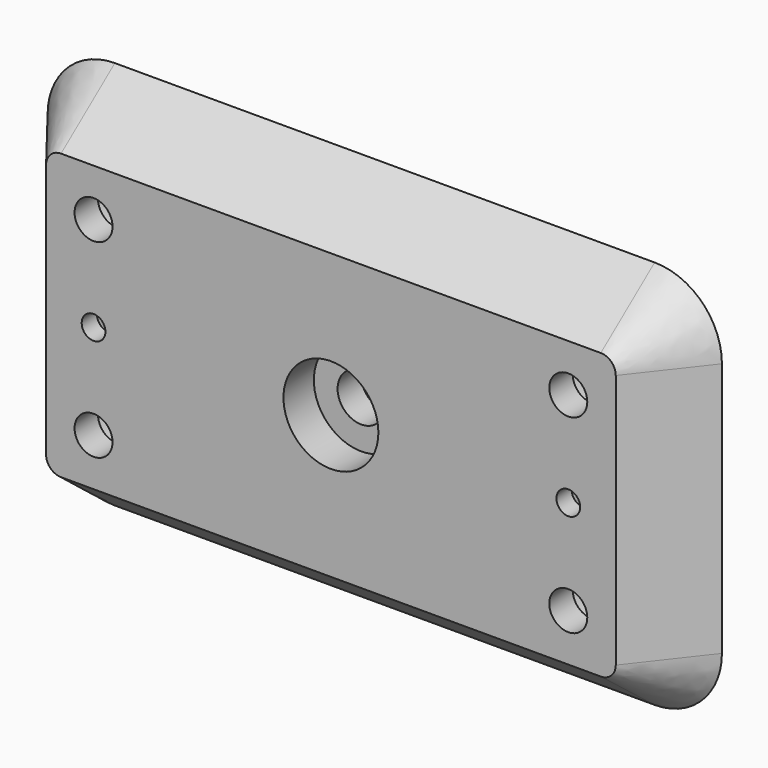
from build123d import *

# Parameters (mm, degrees)
F0_R      = 2.54
F0_R_2    = 3.175
F5_DEPTH  = 9
F6_R      = 1.5875
F7_DEPTH  = 2.54
F8_R      = 6.35
F9_DEPTH  = 5.08
F10_R     = 6.35
F11_DEPTH = 5.08


with BuildPart() as f4:
    # F1 (on Front) → F4 section 0
    with BuildSketch(Plane.XZ):
        with BuildLine():
            ThreePointArc((38.1, 17.05), (37.514214, 18.464214), (36.1, 19.05))
            Line((36.1, 19.05), (-36.1, 19.05))
            ThreePointArc((-36.1, 19.05), (-37.514214, 18.464214), (-38.1, 17.05))
            Line((-38.1, 17.05), (-38.1, -17.05))
            ThreePointArc((-38.1, -17.05), (-37.514214, -18.464214), (-36.1, -19.05))
            Line((-36.1, -19.05), (36.1, -19.05))
            ThreePointArc((36.1, -19.05), (37.514214, -18.464214), (38.1, -17.05))
            Line((38.1, -17.05), (38.1, 17.05))
        make_face()
    # F3 (on offset) → F4 section 1
    with BuildSketch(Plane.XZ.offset(-9)):
        with BuildLine():
            Line((36.1, 26.05), (-36.1, 26.05))
            ThreePointArc((-36.1, 26.05), (-42.463961, 23.413961), (-45.1, 17.05))
            Line((-45.1, 17.05), (-45.1, -17.05))
            ThreePointArc((-45.1, -17.05), (-42.463961, -23.413961), (-36.1, -26.05))
            Line((-36.1, -26.05), (36.1, -26.05))
            ThreePointArc((36.1, -26.05), (42.463961, -23.413961), (45.1, -17.05))
            Line((45.1, -17.05), (45.1, 17.05))
            ThreePointArc((45.1, 17.05), (42.463961, 23.413961), (36.1, 26.05))
        make_face()
    loft()

    # F0 (on Front) → F5 (cut, through all)
    with BuildSketch(Plane.XZ):
        with Locations((31.75, -12.7)):
            Circle(F0_R)
        with Locations((31.75, 12.7)):
            Circle(F0_R)
        with Locations((-31.75, -12.7)):
            Circle(F0_R)
        with Locations((-31.75, 12.7)):
            Circle(F0_R)
        Circle(F0_R_2)
    extrude(amount=-F5_DEPTH, mode=Mode.SUBTRACT)

    # F6 (on face) → F7 (cut)
    with BuildSketch(Plane.XZ):
        with Locations((31.75, 0)):
            Circle(F6_R)
        with Locations((-31.75, 0)):
            Circle(F6_R)
    extrude(amount=-F7_DEPTH, mode=Mode.SUBTRACT)

    # F8 (on face) → F9 (cut)
    with BuildSketch(Plane.XZ):
        Circle(F8_R)
    extrude(amount=-F9_DEPTH, mode=Mode.SUBTRACT)

    # F10 (on face) → F11 (cut)
    with BuildSketch(Plane(origin=(0, 9, 0), x_dir=(-1, 0, 0), z_dir=(0, 1, 0))):
        with Locations((-31.75, 12.7)):
            Circle(F10_R)
        with Locations((-31.75, -12.7)):
            Circle(F10_R)
        with Locations((31.75, 12.7)):
            Circle(F10_R)
        with Locations((31.75, -12.7)):
            Circle(F10_R)
    extrude(amount=-F11_DEPTH, mode=Mode.SUBTRACT)


solid = f4.part
